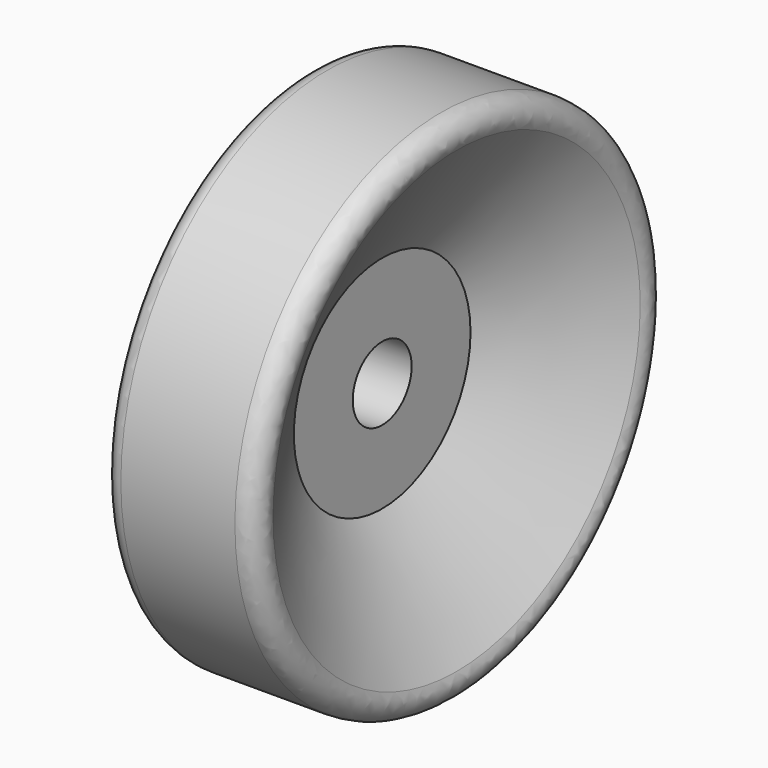
from build123d import *

# Parameters (mm, degrees)
FILLET003_R = 1
FILLET004_R = 1


with BuildPart() as part:
    # Sketch005 → Revolution001 (revolve)
    with BuildSketch(Plane.XY):
        Polygon((2, 14), (2, 2), (6, 2), (6, 6), (11, 14), align=None)
    revolve(axis=Axis((0, 0, 0), (1, 0, 0)))

    # Fillet003
    fillet003_edges = [part.edges().sort_by_distance(p)[0] for p in [
        (2, -14, 0),
    ]]
    fillet(fillet003_edges, radius=FILLET003_R)

    # Fillet004
    fillet004_edges = [part.edges().sort_by_distance(p)[0] for p in [
        (11, -14, 0),
    ]]
    fillet(fillet004_edges, radius=FILLET004_R)


with BuildPart() as part_1:
    # Body002 placement: moved
    add(part.part.moved(Location((-30, 0, 0))))


solid = part_1.part
